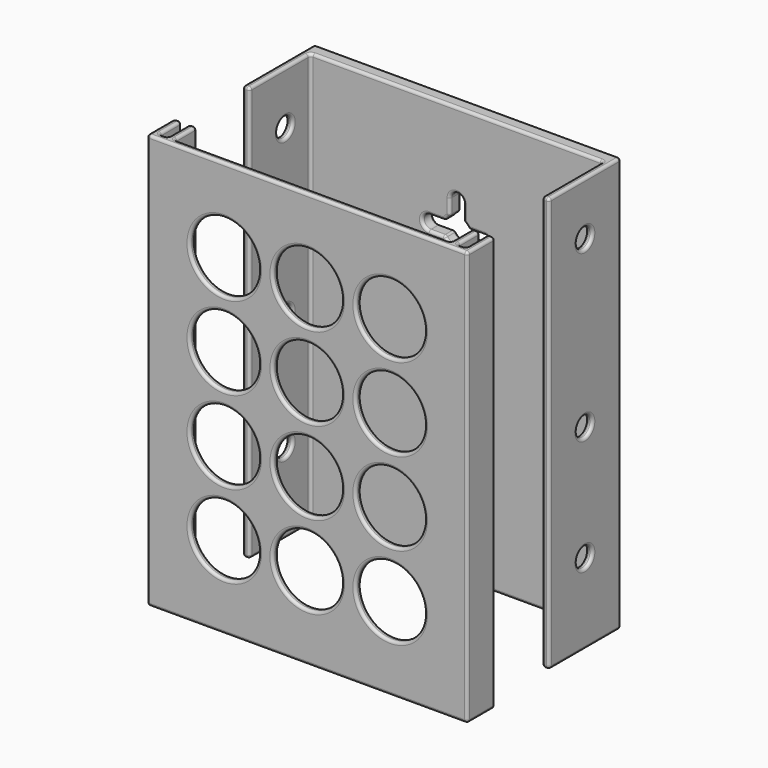
from build123d import *

# Parameters (mm, degrees)
PAD_DEPTH       = 150
SKETCH001_R     = 3.5
POCKET_DEPTH    = 110.851
SKETCH002_R     = 5
POCKET001_DEPTH = 5.001
FILLET_R        = 1
SKETCH003_W     = 115.9
SKETCH003_H     = 2.5
SKETCH003_W_2   = 2.5
SKETCH003_H_2   = 10
PAD001_DEPTH    = 150
SKETCH004_R     = 12.5
POCKET002_DEPTH = 5
FILLET001_R     = 1


with BuildPart() as mountbody:
    # Sketch → Pad (new body)
    with BuildSketch(Plane.XY):
        Polygon((-55.425, -12.4), (-52.925, -12.4), (-52.925, 15.1), (52.925, 15.1), (52.925, -12.4), (55.425, -12.4), (55.425, 20.1), (-55.425, 20.1), align=None)
    extrude(amount=PAD_DEPTH)

    # Sketch001 (on Face6 of Pad) → Pocket (cut, through all)
    with BuildSketch(Plane.YZ.offset(55.425)):
        with Locations((3.75, 29.2)):
            Circle(SKETCH001_R)
        with Locations((3.75, 70.81)):
            Circle(SKETCH001_R)
        with Locations((3.75, 130.8)):
            Circle(SKETCH001_R)
    extrude(amount=-POCKET_DEPTH, mode=Mode.SUBTRACT)

    # Sketch002 (on Face10 of Pocket) → Pocket001 (cut, through all)
    with BuildSketch(Plane.XZ.offset(-15.1)):
        with Locations((0, 110)):
            Circle(SKETCH002_R)
        with Locations((0, 35)):
            Circle(SKETCH002_R)
        with BuildLine():
            ThreePointArc((2.5, 120), (0, 122.5), (-2.5, 120))
            Line((-2.5, 120), (-2.5, 110))
            ThreePointArc((-2.5, 110), (0, 107.5), (2.5, 110))
            Line((2.5, 120), (2.5, 110))
        make_face()
        with BuildLine():
            ThreePointArc((2.5, 45), (0, 47.5), (-2.5, 45))
            Line((-2.5, 45), (-2.5, 35))
            ThreePointArc((-2.5, 35), (0, 32.5), (2.5, 35))
            Line((2.5, 45), (2.5, 35))
        make_face()
        with BuildLine():
            ThreePointArc((0, 107.5), (2.5, 110), (0, 112.5))
            Line((0, 112.5), (-10, 112.5))
            ThreePointArc((-10, 112.5), (-12.5, 110), (-10, 107.5))
            Line((0, 107.5), (-10, 107.5))
        make_face()
        with BuildLine():
            ThreePointArc((0, 112.5), (-2.5, 110), (0, 107.5))
            Line((0, 107.5), (10, 107.5))
            ThreePointArc((10, 107.5), (12.5, 110), (10, 112.5))
            Line((0, 112.5), (10, 112.5))
        make_face()
        with BuildLine():
            ThreePointArc((0, 32.5), (2.5, 35), (0, 37.5))
            Line((0, 37.5), (-10, 37.5))
            ThreePointArc((-10, 37.5), (-12.5, 35), (-10, 32.5))
            Line((0, 32.5), (-10, 32.5))
        make_face()
        with BuildLine():
            ThreePointArc((0, 37.5), (-2.5, 35), (0, 32.5))
            Line((0, 32.5), (10, 32.5))
            ThreePointArc((10, 32.5), (12.5, 35), (10, 37.5))
            Line((0, 37.5), (10, 37.5))
        make_face()
    extrude(amount=-POCKET001_DEPTH, mode=Mode.SUBTRACT)

    # Fillet
    fillet_edges = [mountbody.edges().sort_by_distance(p)[0] for p in [
        (-55.425, -12.4, 75),
        (-52.925, -12.4, 75),
        (-54.175, -12.4, 0),
        (-54.175, -12.4, 150),
        (-55.425, 20.1, 75),
        (-55.425, 3.85, 0),
        (-55.425, 3.85, 150),
        (-55.425, 0.25, 130.8),
        (-55.425, 0.25, 70.81),
        (-55.425, 0.25, 29.2),
        (-52.925, 1.35, 0),
        (-52.925, 1.35, 150),
        (-52.925, 15.1, 75),
        (-52.925, 0.25, 130.8),
        (-52.925, 0.25, 70.81),
        (-52.925, 0.25, 29.2),
        (0, 15.1, 0),
        (52.925, 1.35, 0),
        (54.175, -12.4, 0),
        (55.425, 3.85, 0),
        (0, 20.1, 0),
        (0, 15.1, 150),
        (52.925, 1.35, 150),
        (54.175, -12.4, 150),
        (55.425, 3.85, 150),
        (0, 20.1, 150),
        (55.425, 20.1, 75),
        (-12.5, 20.1, 110),
        (-7.165064, 20.1, 107.5),
        (0, 20.1, 105),
        (7.165064, 20.1, 107.5),
        (12.5, 20.1, 110),
        (7.165064, 20.1, 112.5),
        (3.535534, 20.1, 113.535534),
        (2.5, 20.1, 117.165064),
        (0, 20.1, 122.5),
        (-2.5, 20.1, 117.165064),
        (-3.535534, 20.1, 113.535534),
        (-7.165064, 20.1, 112.5),
        (-12.5, 20.1, 35),
        (-7.165064, 20.1, 32.5),
        (0, 20.1, 30),
        (7.165064, 20.1, 32.5),
        (12.5, 20.1, 35),
        (7.165064, 20.1, 37.5),
        (3.535534, 20.1, 38.535534),
        (2.5, 20.1, 42.165064),
        (0, 20.1, 47.5),
        (-2.5, 20.1, 42.165064),
        (-3.535534, 20.1, 38.535534),
        (-7.165064, 20.1, 37.5),
        (-54.175, 7.25, 130.8),
        (-54.175, 7.25, 70.81),
        (-54.175, 7.25, 29.2),
        (52.925, 15.1, 75),
        (-7.165064, 15.1, 112.5),
        (-3.535534, 15.1, 113.535534),
        (-2.5, 15.1, 117.165064),
        (0, 15.1, 122.5),
        (2.5, 15.1, 117.165064),
        (3.535534, 15.1, 113.535534),
        (7.165064, 15.1, 112.5),
        (12.5, 15.1, 110),
        (7.165064, 15.1, 107.5),
        (0, 15.1, 105),
        (-7.165064, 15.1, 107.5),
        (-12.5, 15.1, 110),
        (-7.165064, 15.1, 37.5),
        (-3.535534, 15.1, 38.535534),
        (-2.5, 15.1, 42.165064),
        (0, 15.1, 47.5),
        (2.5, 15.1, 42.165064),
        (3.535534, 15.1, 38.535534),
        (7.165064, 15.1, 37.5),
        (12.5, 15.1, 35),
        (7.165064, 15.1, 32.5),
        (0, 15.1, 30),
        (-7.165064, 15.1, 32.5),
        (-12.5, 15.1, 35),
        (52.925, -12.4, 75),
        (52.925, 0.25, 130.8),
        (52.925, 0.25, 70.81),
        (52.925, 0.25, 29.2),
        (55.425, -12.4, 75),
        (55.425, 0.25, 130.8),
        (55.425, 0.25, 70.81),
        (55.425, 0.25, 29.2),
        (-10, 17.6, 107.5),
        (-10, 17.6, 112.5),
        (-4.330127, 17.6, 107.5),
        (4.330127, 17.6, 107.5),
        (10, 17.6, 107.5),
        (10, 17.6, 112.5),
        (4.330127, 17.6, 112.5),
        (2.5, 17.6, 114.330127),
        (2.5, 17.6, 120),
        (-2.5, 17.6, 120),
        (-2.5, 17.6, 114.330127),
        (-4.330127, 17.6, 112.5),
        (-10, 17.6, 32.5),
        (-10, 17.6, 37.5),
        (-4.330127, 17.6, 32.5),
        (4.330127, 17.6, 32.5),
        (10, 17.6, 32.5),
        (10, 17.6, 37.5),
        (4.330127, 17.6, 37.5),
        (2.5, 17.6, 39.330127),
        (2.5, 17.6, 45),
        (-2.5, 17.6, 45),
        (-2.5, 17.6, 39.330127),
        (-4.330127, 17.6, 37.5),
        (54.175, 7.25, 130.8),
        (54.175, 7.25, 70.81),
        (54.175, 7.25, 29.2),
    ]]
    fillet(fillet_edges, radius=FILLET_R)


with BuildPart() as mountlid:
    # Sketch003 → Pad001 (new body)
    with BuildSketch(Plane.XY):
        with Locations((0, -51.25)):
            Rectangle(SKETCH003_W, SKETCH003_H)
        with Locations((-56.7, -45)):
            Rectangle(SKETCH003_W_2, SKETCH003_H_2)
        with Locations((-51.2, -45)):
            Rectangle(SKETCH003_W_2, SKETCH003_H_2)
        with Locations((51.2, -45)):
            Rectangle(SKETCH003_W_2, SKETCH003_H_2)
        with Locations((56.7, -45)):
            Rectangle(SKETCH003_W_2, SKETCH003_H_2)
    extrude(amount=PAD001_DEPTH)

    # Sketch004 (on Face3 of Pad001) → Pocket002 (cut)
    with BuildSketch(Plane.XZ.offset(52.5)):
        with Locations((-30, 120)):
            Circle(SKETCH004_R)
        with Locations((0, 120)):
            Circle(SKETCH004_R)
        with Locations((30, 120)):
            Circle(SKETCH004_R)
        with Locations((-30, 90)):
            Circle(SKETCH004_R)
        with Locations((0, 90)):
            Circle(SKETCH004_R)
        with Locations((30, 90)):
            Circle(SKETCH004_R)
        with Locations((-30, 60)):
            Circle(SKETCH004_R)
        with Locations((0, 60)):
            Circle(SKETCH004_R)
        with Locations((30, 60)):
            Circle(SKETCH004_R)
        with Locations((-30, 30)):
            Circle(SKETCH004_R)
        with Locations((0, 30)):
            Circle(SKETCH004_R)
        with Locations((30, 30)):
            Circle(SKETCH004_R)
    extrude(amount=-POCKET002_DEPTH, mode=Mode.SUBTRACT)

    # Fillet001
    fillet001_edges = [mountlid.edges().sort_by_distance(p)[0] for p in [
        (-52.45, -50, 75),
        (-53.95, -50, 150),
        (-55.45, -50, 75),
        (-53.95, -50, 0),
        (-52.45, -40, 75),
        (-52.45, -45, 0),
        (-52.45, -45, 150),
        (0, -52.5, 150),
        (57.95, -46.25, 150),
        (56.7, -40, 150),
        (55.45, -45, 150),
        (53.95, -50, 150),
        (52.45, -45, 150),
        (51.2, -40, 150),
        (49.95, -45, 150),
        (0, -50, 150),
        (-49.95, -45, 150),
        (-51.2, -40, 150),
        (-55.45, -45, 150),
        (-56.7, -40, 150),
        (-57.95, -46.25, 150),
        (-55.45, -40, 75),
        (-55.45, -45, 0),
        (-57.95, -46.25, 0),
        (-56.7, -40, 0),
        (-51.2, -40, 0),
        (-49.95, -45, 0),
        (0, -50, 0),
        (49.95, -45, 0),
        (51.2, -40, 0),
        (52.45, -45, 0),
        (53.95, -50, 0),
        (55.45, -45, 0),
        (56.7, -40, 0),
        (57.95, -46.25, 0),
        (0, -52.5, 0),
        (-49.95, -40, 75),
        (-57.95, -52.5, 75),
        (57.95, -52.5, 75),
        (-42.5, -52.5, 120),
        (-12.5, -52.5, 120),
        (-42.5, -52.5, 90),
        (-12.5, -52.5, 90),
        (17.5, -52.5, 120),
        (17.5, -52.5, 90),
        (-42.5, -52.5, 60),
        (-12.5, -52.5, 60),
        (-42.5, -52.5, 30),
        (-12.5, -52.5, 30),
        (17.5, -52.5, 60),
        (17.5, -52.5, 30),
        (57.95, -40, 75),
        (55.45, -40, 75),
        (55.45, -50, 75),
        (52.45, -50, 75),
        (52.45, -40, 75),
        (49.95, -40, 75),
        (49.95, -50, 75),
        (-49.95, -50, 75),
        (-42.5, -50, 30),
        (-42.5, -50, 60),
        (-42.5, -50, 90),
        (-42.5, -50, 120),
        (-12.5, -50, 30),
        (-12.5, -50, 60),
        (17.5, -50, 30),
        (17.5, -50, 60),
        (-12.5, -50, 90),
        (-12.5, -50, 120),
        (17.5, -50, 90),
        (17.5, -50, 120),
        (-57.95, -40, 75),
        (-17.5, -51.25, 120),
        (12.5, -51.25, 120),
        (-17.5, -51.25, 90),
        (12.5, -51.25, 90),
        (42.5, -51.25, 120),
        (42.5, -51.25, 90),
        (-17.5, -51.25, 60),
        (12.5, -51.25, 60),
        (-17.5, -51.25, 30),
        (12.5, -51.25, 30),
        (42.5, -51.25, 60),
        (42.5, -51.25, 30),
    ]]
    fillet(fillet001_edges, radius=FILLET001_R)


solid = Compound([mountbody.part, mountlid.part])
